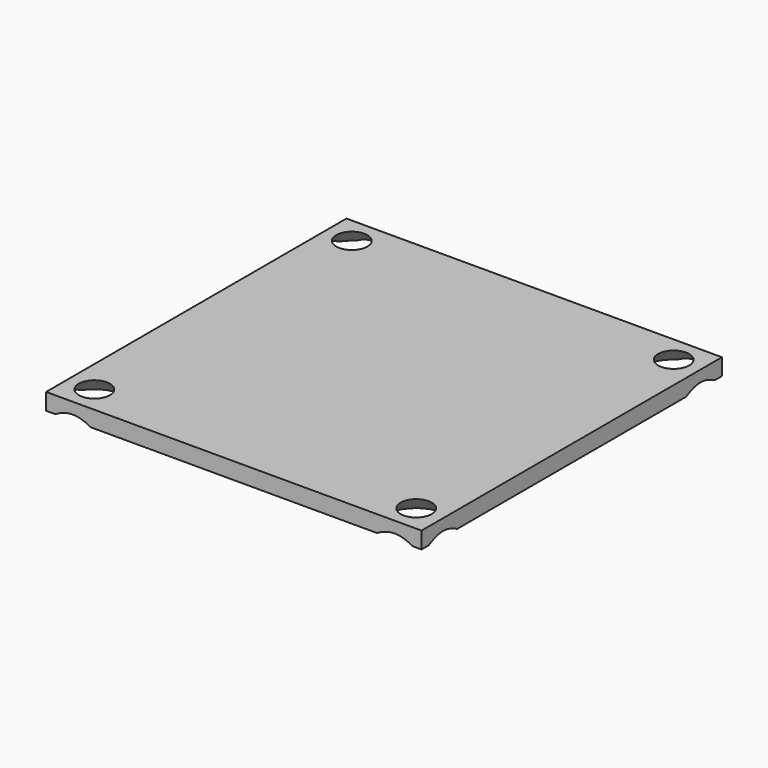
from build123d import *

# Parameters (mm, degrees)
F0_W           = 70
F0_H           = 70
F0_W_2         = 60
F0_H_2         = 60
F1_DEPTH       = 3.1
F2_D           = 4
F2_DEPTH       = 15
F2_CSINK_D     = 12
F2_CSINK_ANGLE = 90
F2_TIP         = 1.2017212381


with BuildPart() as f1:
    # F0 (on Top) → F1 (new body)
    with BuildSketch(Plane.XY):
        Rectangle(F0_W, F0_H)
        Rectangle(F0_W_2, F0_H_2, mode=Mode.SUBTRACT)
        Rectangle(F0_W_2, F0_H_2)
    extrude(amount=F1_DEPTH)

    # F2
    with Locations(Plane(origin=(0, 0, 0), x_dir=(1, 0, 0), z_dir=(0, 0, -1))):
        with Locations((-30, -30), (30, -30), (30, 30), (-30, 30)):
            CounterSinkHole(F2_D / 2, F2_CSINK_D / 2, depth=F2_DEPTH, counter_sink_angle=F2_CSINK_ANGLE)
            with Locations((0, 0, -(F2_DEPTH + F2_TIP / 2))):  # 118° drill point
                Cone(0, F2_D / 2, F2_TIP, mode=Mode.SUBTRACT)


solid = f1.part
